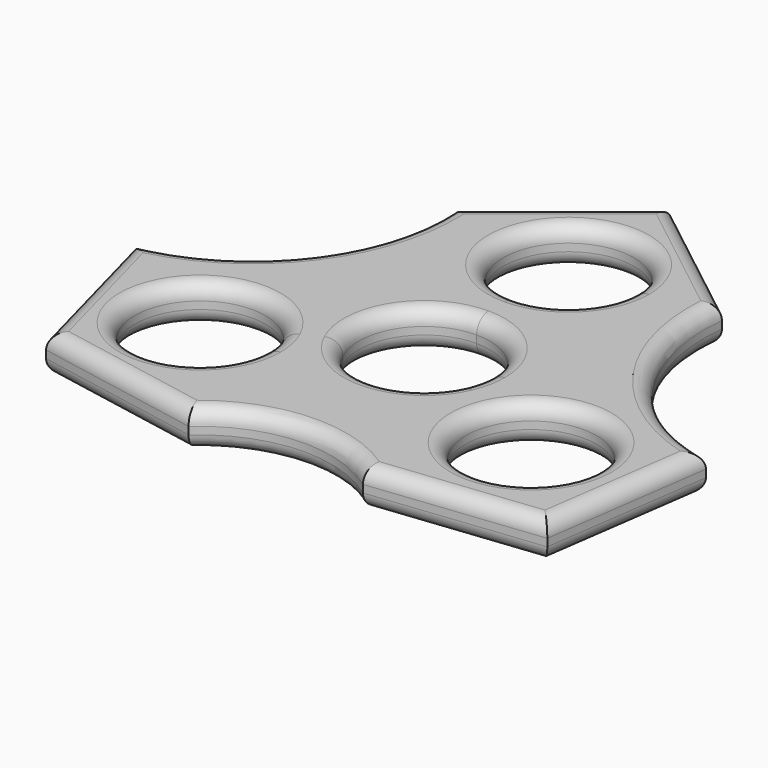
from build123d import *

# Parameters (mm, degrees)
F1_DEPTH = 6.35
F2_R     = 2.54
F3_R     = 2.54


with BuildPart() as f1:
    # F0 (on Top) → F1 (new body)
    with BuildSketch(Plane.XY):
        with BuildLine():
            Line((22.6901771963, 34.5118996963), (0, 52.2545948625))
            Line((0, 52.2545948625), (-22.4834308028, 34.2678502202))
            ThreePointArc((-22.4834308028, 34.2678502202), (-29.0985007425, 11.9039336581), (-49.15343225, 0))
            Line((-49.15343225, 0), (-41.6710932069, -27.8147798015))
            Line((-41.6710932069, -27.8147798015), (-13.358411342, -33.1100058194))
            ThreePointArc((-13.358411342, -33.1100058194), (0.5556610299, -27.3387742359), (14.976679458, -31.6911013672))
            Line((14.976679458, -31.6911013672), (43.6057310623, -28.5249085119))
            Line((43.6057310623, -28.5249085119), (47.6028509438, 0))
            ThreePointArc((47.6028509438, 0), (28.5221785765, 12.474123568), (22.6901771963, 34.5118996963))
        make_face()
        with BuildLine():
            ThreePointArc((-12.4182805133, -12.808197338), (-42.5413866661, -16.0870311618), (-13.8291402566, -6.404098669))
            ThreePointArc((-13.8291402566, -6.404098669), (-12.7751743605, -9.5293635141), (-12.4182805133, -12.808197338))
        make_face(mode=Mode.SUBTRACT)
        with BuildLine():
            ThreePointArc((43.1280172787, -12.2999549699), (24.7454937437, -27.2124378561), (13.9440086394, -6.1499774849))
            ThreePointArc((13.9440086394, -6.1499774849), (31.0305408137, 2.6125279164), (43.1280172787, -12.2999549699))
        make_face(mode=Mode.SUBTRACT)
        with BuildLine():
            ThreePointArc((-12.6767119019, -5.8704237799), (-11.7722283406, 7.52167135), (0, 13.97))
            ThreePointArc((0, 13.97), (9.8782817332, 9.8782817332), (13.97, 0))
            ThreePointArc((13.97, 0), (13.669775979, -2.8806465737), (12.7820079194, -5.6374793612))
            ThreePointArc((12.7820079194, -5.6374793612), (0.127818576, -13.9694152495), (-12.6767119019, -5.8704237799))
        make_face(mode=Mode.SUBTRACT)
        with BuildLine():
            ThreePointArc((15.24, 30.48), (10.7763073453, 19.7036926547), (0, 15.24))
            ThreePointArc((0, 15.24), (-10.7763073453, 41.2563073453), (15.24, 30.48))
        make_face(mode=Mode.SUBTRACT)
        with BuildLine():
            ThreePointArc((15.24, 30.48), (-10.7763073453, 41.2563073453), (0, 15.24))
            ThreePointArc((0, 15.24), (10.7763073453, 19.7036926547), (15.24, 30.48))
        make_face()
        with BuildLine():
            ThreePointArc((11.049, 30.48), (7.8128228253, 22.6671771747), (0, 19.431))
            ThreePointArc((0, 19.431), (-7.8128228253, 38.2928228253), (11.049, 30.48))
        make_face(mode=Mode.SUBTRACT)
        with BuildLine():
            ThreePointArc((0, 11.049), (7.8128228253, 7.8128228253), (11.049, 0))
            ThreePointArc((11.049, 0), (10.8115500925, -2.2783295629), (10.1094062635, -4.4587336766))
            Line((10.1094062635, -4.4587336766), (12.7820079194, -5.6374793612))
            ThreePointArc((12.7820079194, -5.6374793612), (13.669775979, -2.8806465737), (13.97, 0))
            ThreePointArc((13.97, 0), (9.8782817332, 9.8782817332), (0, 13.97))
            Line((0, 13.97), (0, 11.049))
        make_face()
        with BuildLine():
            ThreePointArc((-10.0261266861, -4.642971535), (-9.3107624148, 5.9489582495), (0, 11.049))
            Line((0, 11.049), (0, 13.97))
            ThreePointArc((0, 13.97), (-11.7722283406, 7.52167135), (-12.6767119019, -5.8704237799))
            Line((-12.6767119019, -5.8704237799), (-10.0261266861, -4.642971535))
        make_face()
        with BuildLine():
            Line((12.7820079194, -5.6374793612), (10.1094062635, -4.4587336766))
            ThreePointArc((10.1094062635, -4.4587336766), (0.1010928738, -11.0485375155), (-10.0261266861, -4.642971535))
            Line((-10.0261266861, -4.642971535), (-12.6767119019, -5.8704237799))
            ThreePointArc((-12.6767119019, -5.8704237799), (0.127818576, -13.9694152495), (12.7820079194, -5.6374793612))
        make_face()
        with BuildLine():
            ThreePointArc((-12.4182805133, -12.808197338), (-12.7751743605, -9.5293635141), (-13.8291402566, -6.404098669))
            ThreePointArc((-13.8291402566, -6.404098669), (-42.5413866661, -16.0870311618), (-12.4182805133, -12.808197338))
        make_face()
        with BuildLine():
            ThreePointArc((-16.6092805133, -12.808197338), (-38.4485324741, -15.1853518603), (-17.6321538272, -8.165225803))
            ThreePointArc((-17.6321538272, -8.165225803), (-16.8680285525, -10.4310428157), (-16.6092805133, -12.808197338))
        make_face(mode=Mode.SUBTRACT)
        with BuildLine():
            ThreePointArc((43.1280172787, -12.2999549699), (31.0305408137, 2.6125279164), (13.9440086394, -6.1499774849))
            ThreePointArc((13.9440086394, -6.1499774849), (24.7454937437, -27.2124378561), (43.1280172787, -12.2999549699))
        make_face()
        with BuildLine():
            ThreePointArc((38.9370172787, -12.2999549699), (25.6096877159, -23.1115050624), (17.7786110152, -7.8412212933))
            ThreePointArc((17.7786110152, -7.8412212933), (30.1663468416, -1.4884048774), (38.9370172787, -12.2999549699))
        make_face(mode=Mode.SUBTRACT)
    extrude(amount=F1_DEPTH)

    # F2
    f2_edges = [f1.edges().sort_by_distance(p)[0] for p in [
        (0, 41.529, 6.35),
        (37.997424, -16.758689, 6.35),
        (-38.707281, -12.808197, 6.35),
        (0.555661, -27.338774, 6.35),
        (29.291205, -30.108005, 6.35),
        (45.604291, -14.262454, 6.35),
        (28.522179, 12.474124, 6.35),
        (11.345089, 43.383247, 6.35),
        (-11.241715, 43.261223, 6.35),
        (-29.098501, 11.903934, 6.35),
        (-45.412263, -13.90739, 6.35),
        (-27.514752, -30.462393, 6.35),
        (-10.109406, 4.458734, 6.35),
    ]]
    fillet(f2_edges, radius=F2_R)

    # F3
    f3_edges = [f1.edges().sort_by_distance(p)[0] for p in [
        (-10.109406, 4.458734, 0),
        (-38.707281, -12.808197, 0),
        (37.997424, -16.758689, 0),
        (0, 41.529, 0),
        (28.522179, 12.474124, 0),
        (45.604291, -14.262454, 0),
        (29.291205, -30.108005, 0),
        (0.555661, -27.338774, 0),
        (-27.514752, -30.462393, 0),
        (-45.412263, -13.90739, 0),
        (-29.098501, 11.903934, 0),
        (-11.241715, 43.261223, 0),
        (11.345089, 43.383247, 0),
    ]]
    fillet(f3_edges, radius=F3_R)


solid = f1.part
